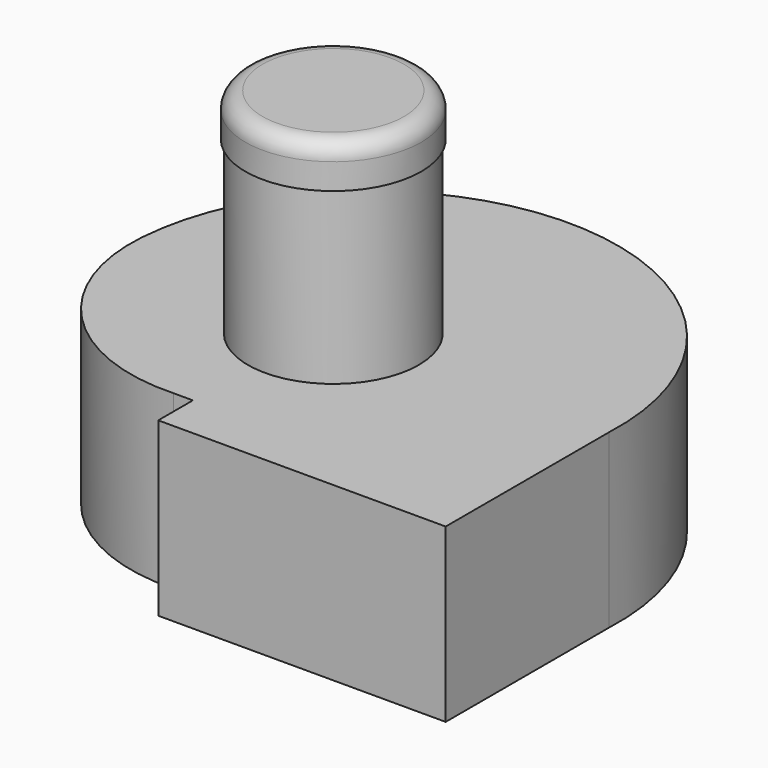
from build123d import *

# Parameters (mm, degrees)
F1_DEPTH = 255.524
F2_R     = 127
F3_DEPTH = 254


with BuildPart() as f1:
    # F0 (on Top) → F1 (new body)
    with BuildSketch(Plane.XY):
        with BuildLine():
            ThreePointArc((395.4526, 0), (52.394599, 380.85148), (-333.5274, 43.50766))
            ThreePointArc((-333.5274, 43.50766), (-260.361114, -158.936751), (-60.56376, -239.04956))
            Line((-60.56376, -239.04956), (-31.5214, -239.04956))
            Line((-31.5214, -239.04956), (-31.5214, -303.3014))
            Line((-31.5214, -303.3014), (395.4526, -303.3014))
            Line((395.4526, -303.3014), (395.4526, 0))
        make_face()
    extrude(amount=F1_DEPTH)

    # F2 (on face) → F3 (join)
    with BuildSketch(Plane.XY.offset(255.524)):
        with Locations((-9.4234, -5.8674)):
            Circle(F2_R)
    extrude(amount=F3_DEPTH)

    # F6 (on face) → F9 (revolve)
    with BuildSketch(Plane.XZ.offset(5.8674)):
        with BuildLine():
            Line((121.1326, 509.524), (121.1326, 547.878))
            ThreePointArc((121.1326, 547.878), (113.693112, 565.838512), (95.7326, 573.278))
            Line((95.7326, 573.278), (-9.4234, 573.278))
            Line((-9.4234, 573.278), (-9.4234, 509.524))
            Line((-9.4234, 509.524), (121.1326, 509.524))
        make_face()
    revolve(axis=Axis((-9.4234, -5.8674, 525.207323), (0, 0, 1)))


solid = f1.part
